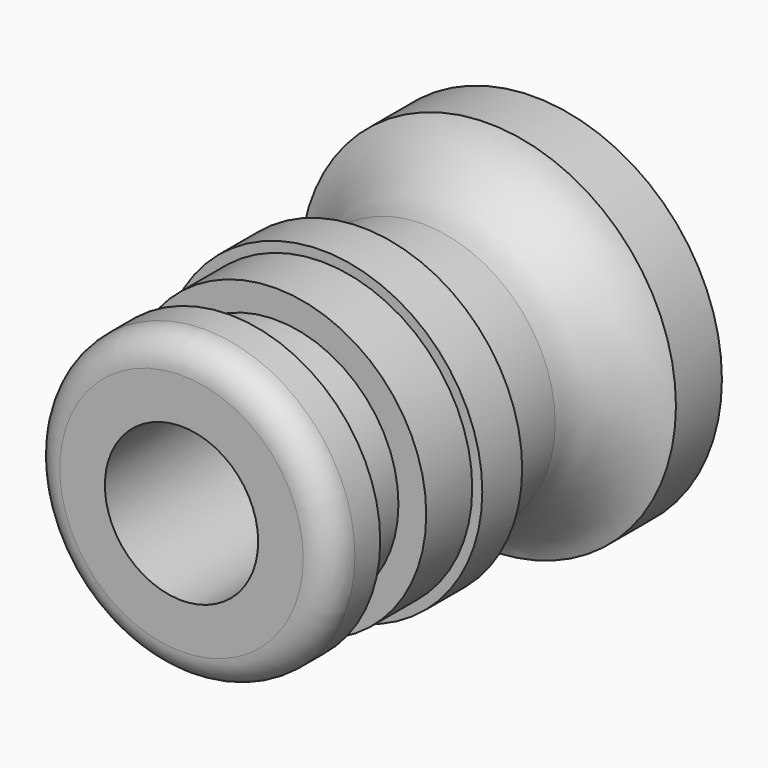
from build123d import *


with BuildPart() as f1:
    # F0 (on Top) → F1 (revolve)
    with BuildSketch(Plane.XY):
        with BuildLine():
            Line((4, -8.6744662112), (6.35, -8.6744662112))
            ThreePointArc((6.35, -8.6744662112), (7.4106601718, -8.235126383), (7.85, -7.1744662112))
            Line((7.85, -7.1744662112), (7.85, -5.5244662112))
            Line((7.85, -5.5244662112), (6.4, -5.5244662112))
            Line((6.4, -5.5244662112), (6.4, -2.5244662112))
            Line((6.4, -2.5244662112), (7.85, -2.5244662112))
            Line((7.85, -2.5244662112), (7.85, 0.4755337888))
            Line((7.85, 0.4755337888), (8.375, 0.4755337888))
            Line((8.375, 0.4755337888), (8.375, 3.0755337888))
            Line((8.375, 3.0755337888), (6.9, 3.0755337888))
            Line((6.9, 3.0755337888), (6.9, 7.0755337888))
            add(Edge.make_bspline(
                [(6.9, 7.0755337888), (6.9208938163, 8.2376973884), (7.7588275194, 9.8043361183), (9.0389247184, 11.0777755177), (9.8, 11.3255337888)],
                knots=[0, 0, 0, 0, 0.5223661577, 1, 1, 1, 1], degree=3))
            Line((9.8, 11.3255337888), (9.8, 14.3255337888))
            Line((9.8, 14.3255337888), (0, 14.3255337888))
            Line((0, 14.3255337888), (0, 11.3255337888))
            Line((0, 11.3255337888), (4, 11.3255337888))
            Line((4, 11.3255337888), (4, -8.6744662112))
        make_face()
    revolve(axis=Axis((0, 1.3936157085, 0), (0, -1, 0)))


solid = f1.part
